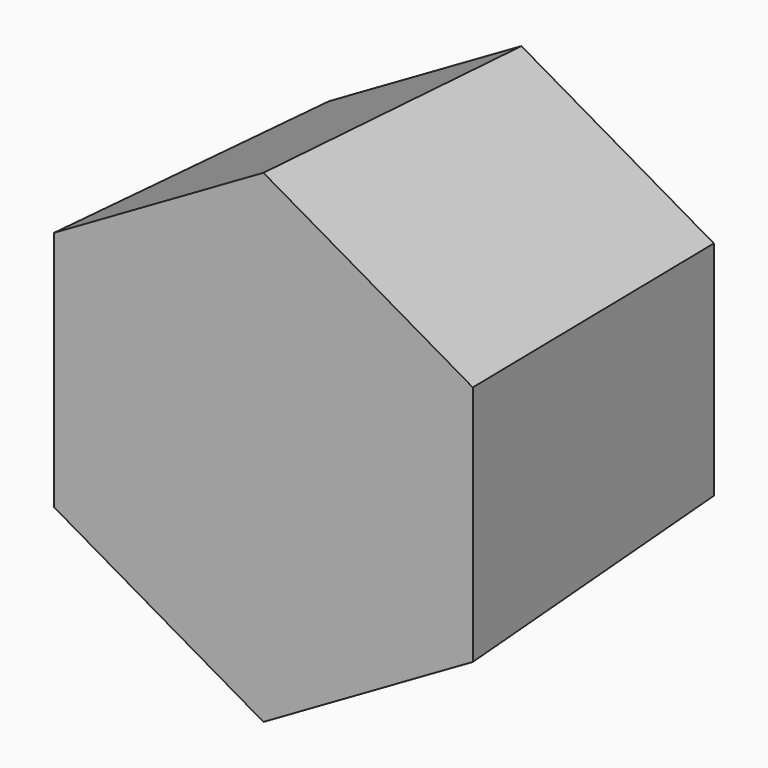
from build123d import *

# Parameters (mm, degrees)
F1_DEPTH = 127
F1_TAPER = -3


with BuildPart() as f1:
    # F0 (on Front) → F1 (new body)
    with BuildSketch(Plane.XZ):
        Polygon((75.7989510894, -43.7625448157), (75.7989510894, 43.7625448157), (0, 87.5250896315), (-75.7989510894, 43.7625448157), (-75.7989510894, -43.7625448157), (0, -87.5250896315), align=None)
    extrude(amount=F1_DEPTH, taper=F1_TAPER)


solid = f1.part
